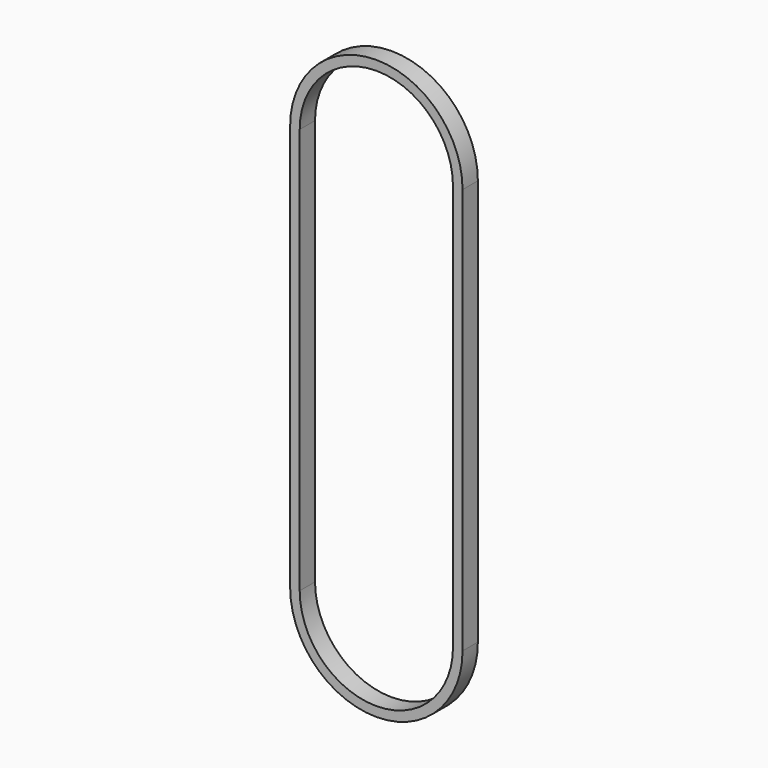
from build123d import *

# Parameters (mm, degrees)
F1_DEPTH = 1


with BuildPart() as f1:
    # F0 (on Front) → F1 (new body)
    with BuildSketch(Plane.XZ):
        with BuildLine():
            ThreePointArc((4.5, 21.2), (0, 25.7), (-4.5, 21.2))
            Line((-4.5, 21.2), (-4, 21.2))
            ThreePointArc((-4, 21.2), (0, 25.2), (4, 21.2))
            Line((4, 21.2), (4.5, 21.2))
        make_face()
        with BuildLine():
            Line((4, 21.2), (4, 19.1384471872))
            ThreePointArc((4, 19.1384471872), (4.3732139211, 20.1393398282), (4.5, 21.2))
            Line((4.5, 21.2), (4, 21.2))
        make_face()
        with BuildLine():
            ThreePointArc((-4.5, 21.2), (-4.3732139211, 20.1393398282), (-4, 19.1384471872))
            Line((-4, 19.1384471872), (-4, 21.2))
            Line((-4, 21.2), (-4.5, 21.2))
        make_face()
        with BuildLine():
            ThreePointArc((-4.5, 0), (-4.3732139211, 1.0606601718), (-4, 2.0615528128))
            Line((-4, 2.0615528128), (-4, 19.1384471872))
            ThreePointArc((-4, 19.1384471872), (-4.3732139211, 20.1393398282), (-4.5, 21.2))
            Line((-4.5, 21.2), (-4.5, 0))
        make_face()
        with BuildLine():
            Line((4, 19.1384471872), (4, 2.0615528128))
            ThreePointArc((4, 2.0615528128), (4.3732139211, 1.0606601718), (4.5, 0))
            Line((4.5, 0), (4.5, 21.2))
            ThreePointArc((4.5, 21.2), (4.3732139211, 20.1393398282), (4, 19.1384471872))
        make_face()
        with BuildLine():
            Line((-4.5, 0), (-4, 0))
            Line((-4, 0), (-4, 2.0615528128))
            ThreePointArc((-4, 2.0615528128), (-4.3732139211, 1.0606601718), (-4.5, 0))
        make_face()
        with BuildLine():
            Line((4, 2.0615528128), (4, 0))
            Line((4, 0), (4.5, 0))
            ThreePointArc((4.5, 0), (4.3732139211, 1.0606601718), (4, 2.0615528128))
        make_face()
        with BuildLine():
            ThreePointArc((4, 0), (0, -4), (-4, 0))
            Line((-4, 0), (-4.5, 0))
            ThreePointArc((-4.5, 0), (0, -4.5), (4.5, 0))
            Line((4.5, 0), (4, 0))
        make_face()
    extrude(amount=F1_DEPTH)


solid = f1.part
